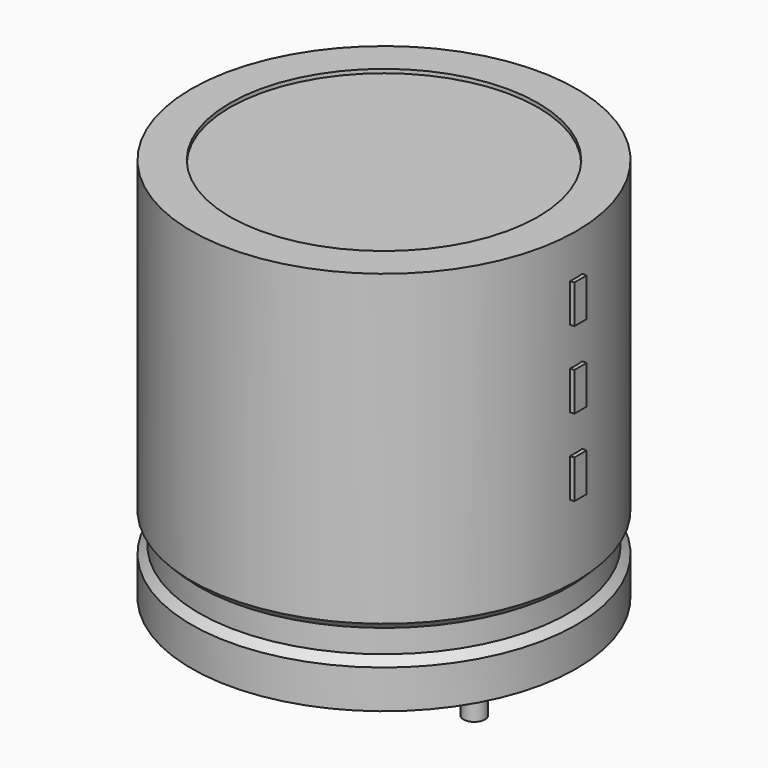
from build123d import *

# Parameters (mm, degrees)
SKETCH002_W  = 7.36
SKETCH002_H  = 15.68
SKETCH003_R  = 0.45
PAD_DEPTH    = 4.6
SKETCH004_W  = 0.64
SKETCH004_H  = 1.6
PAD001_DEPTH = 8.16


with BuildPart() as revolution:
    # Sketch → Revolution (revolve)
    with BuildSketch(Plane.XZ):
        Polygon((-4.25, 0.1), (-4.25, 1.7), (-3.93, 2.02), (-3.93, 2.98), (-4.25, 3.3), (-4.25, 16.1), (-2.65, 16.1), (-2.65, 0.1), align=None)
    revolve(axis=Axis((3.75, 0, 7.548619), (0, 0, -1)))


with BuildPart() as revolution001:
    # Sketch002 → Revolution001 (revolve)
    with BuildSketch(Plane.XZ):
        with Locations((0.07, 8.1)):
            Rectangle(SKETCH002_W, SKETCH002_H)
    revolve(axis=Axis((3.75, 0, 4.680116), (0, 0, -1)))


with BuildPart() as pad:
    # Sketch003 → Pad (new body)
    with BuildSketch(Plane.XY.offset(1.6)):
        Circle(SKETCH003_R)
        with Locations((7.5, 0)):
            Circle(SKETCH003_R)
    extrude(amount=-PAD_DEPTH)


with BuildPart() as pad001:
    # Sketch004 → Pad001 (new body)
    with BuildSketch(Plane.YZ.offset(3.75)):
        with Locations((0, 7.2)):
            Rectangle(SKETCH004_W, SKETCH004_H)
        with Locations((0, 10.4)):
            Rectangle(SKETCH004_W, SKETCH004_H)
        with Locations((0, 13.6)):
            Rectangle(SKETCH004_W, SKETCH004_H)
    extrude(amount=PAD001_DEPTH)


solid = Compound([revolution.part, revolution001.part, pad.part, pad001.part])
